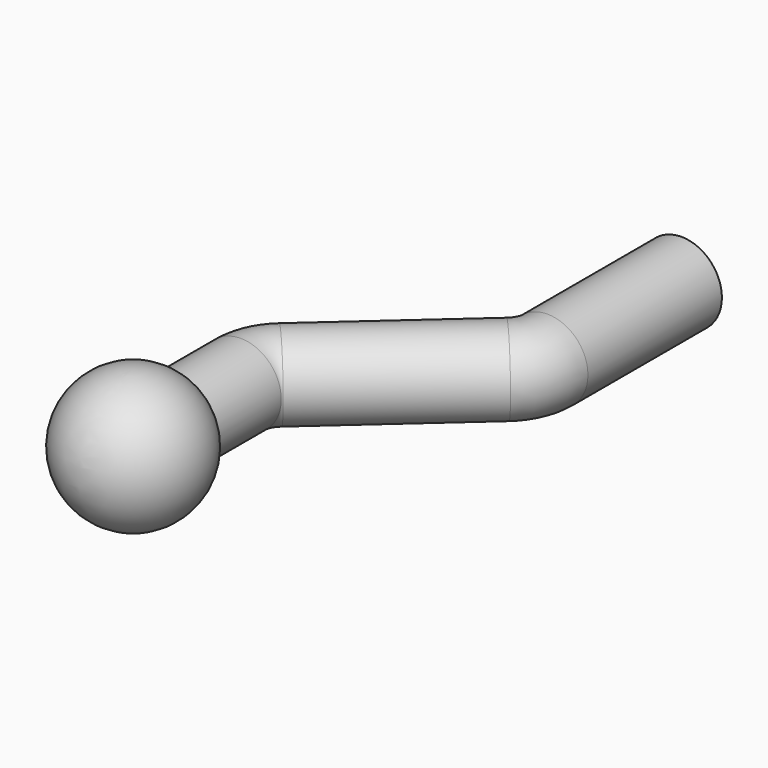
from build123d import *

# Parameters (mm, degrees)
F1_R   = 4.7553681228
F1_R_2 = 2.331332345


with BuildPart() as f2:
    # F2: sweep along a path in F0
    with BuildLine(Plane.XY) as f2_path:
        Line((0, 0), (0, 11.7783713439))
        ThreePointArc((0, 11.7783713439), (0.4385311413, 13.8260534118), (1.6772007405, 15.514546538))
        Line((1.6772007405, 15.514546538), (17.2961814494, 29.405420182))
        ThreePointArc((17.2961814494, 29.405420182), (18.5348510486, 31.0939133082), (18.9733821899, 33.1415953761))
        Line((18.9733821899, 33.1415953761), (18.9733821899, 52.8334341943))
    # F1 (on Front) → F2 (sweep)
    with BuildSketch(Plane.XZ):
        Circle(F1_R)
        Circle(F1_R_2, mode=Mode.SUBTRACT)
    sweep(path=f2_path.line)

    # F3 (on Right) → F4 (revolve)
    with BuildSketch(Plane.YZ):
        with BuildLine():
            Line((-4.0508554065, -8), (-4.0508554065, 0))
            Line((-4.0508554065, 0), (-4.0508554065, 8))
            ThreePointArc((-4.0508554065, 8), (-12.0508554065, 0), (-4.0508554065, -8))
        make_face()
    revolve(axis=Axis((0, -4.0508554065, 4), (0, 0, 1)))


solid = f2.part
